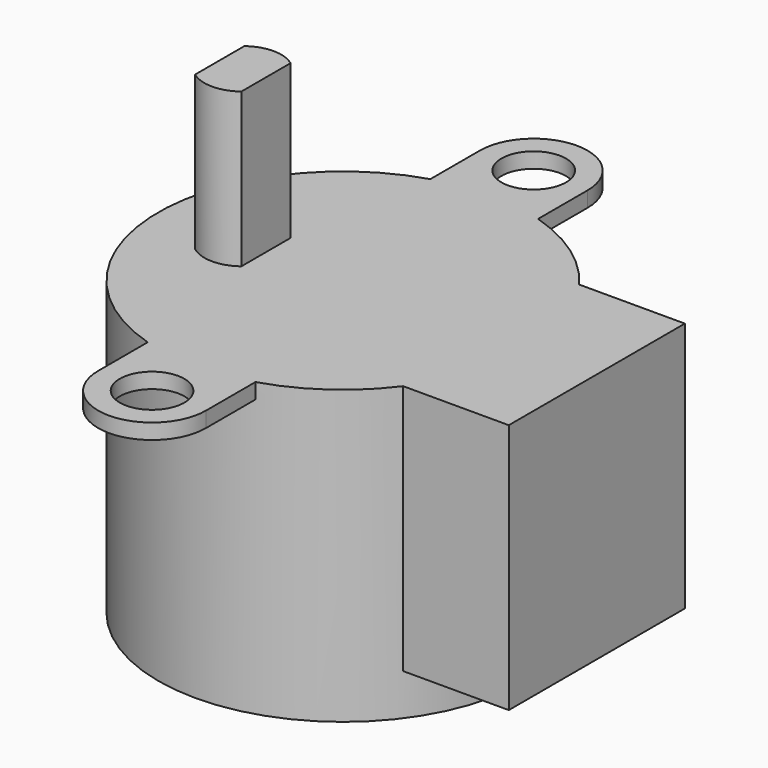
from build123d import *

# Parameters (mm, degrees)
SKETCH018_R             = 12
PAD008_DEPTH            = 19
SKETCH019_W             = 14.3
SKETCH019_H             = 10
PAD009_DEPTH            = 16.3
SKETCH020_R             = 2.1
PAD010_DEPTH            = 1
PAD011_DEPTH            = 10
BODY004_PLACEMENT_ANGLE = 90


with BuildPart() as part:
    # Sketch018 → Pad008 (new body)
    with BuildSketch(Plane.XY):
        Circle(SKETCH018_R)
    extrude(amount=PAD008_DEPTH)

    # Sketch019 (on Face3 of Pad008) → Pad009 (join)
    with BuildSketch(Plane.XY.offset(19)):
        with Locations((0, -11.5)):
            Rectangle(SKETCH019_W, SKETCH019_H)
    extrude(amount=-PAD009_DEPTH)

    # Sketch020 (on Face3 of Pad009) → Pad010 (join)
    with BuildSketch(Plane.XY.offset(19)):
        with BuildLine():
            ThreePointArc((15.5, -3.5), (19, 0), (15.5, 3.5))
            Line((15.5, 3.5), (-15.5, 3.5))
            ThreePointArc((-15.5, 3.5), (-19, 0), (-15.5, -3.5))
            Line((-15.5, -3.5), (15.5, -3.5))
        make_face()
        with Locations((15.5, 0)):
            Circle(SKETCH020_R, mode=Mode.SUBTRACT)
        with Locations((-15.5, 0)):
            Circle(SKETCH020_R, mode=Mode.SUBTRACT)
    extrude(amount=-PAD010_DEPTH)

    # Sketch021 (on Face11 of Pad010) → Pad011 (join)
    with BuildSketch(Plane.XY.offset(19)):
        with BuildLine():
            ThreePointArc((-2, 8), (-2.5, 6.5), (-2, 5))
            Line((-2, 5), (2, 5))
            ThreePointArc((2, 5), (2.5, 6.5), (2, 8))
            Line((-2, 8), (2, 8))
        make_face()
    extrude(amount=PAD011_DEPTH)


with BuildPart() as part_1:
    # Body004 placement: moved
    add(part.part.moved(Location((57.5, 0, -4.5))).rotate(Axis((57.5, 0, -4.5), (0, 0, 1)), BODY004_PLACEMENT_ANGLE))


solid = part_1.part
